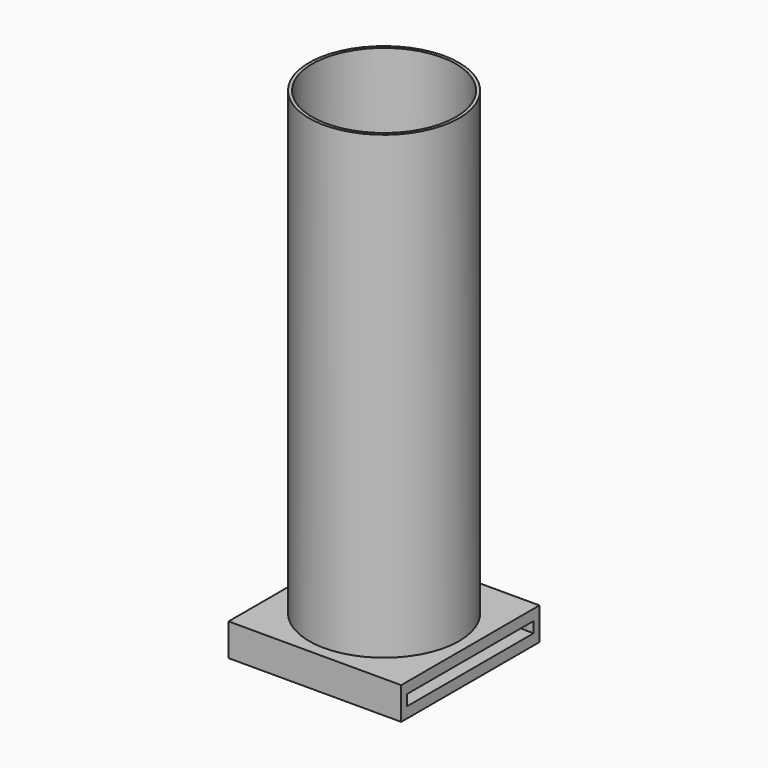
from build123d import *

# Parameters (mm, degrees)
F0_R      = 66.2686
F0_R_2    = 63.5
F1_DEPTH  = 406.4
F3_DEPTH  = 66.2696
F5_DEPTH  = 9.525
F6_W      = 152.4
F6_H      = 152.5488182802
F6_W_2    = 139.7
F6_H_2    = 139.8488182802
F7_DEPTH  = 9.525
F8_W      = 152.4
F8_H      = 152.5488182802
F9_DEPTH  = 9.525
F10_DEPTH = 28.576
F11_W     = 139.7
F11_H     = 9.525
F12_DEPTH = 25.4


with BuildPart() as f1:
    # F0 (on Top) → F1 (new body)
    with BuildSketch(Plane.XY):
        Circle(F0_R)
        Circle(F0_R_2, mode=Mode.SUBTRACT)
    extrude(amount=F1_DEPTH)

    # F2 (on Front) → F3 (cut, through all)
    with BuildSketch(Plane.XZ):
        with BuildLine():
            Line((-12.7, 203.2), (-12.7, 101.6))
            ThreePointArc((-12.7, 101.6), (-8.9802561211, 92.6197438789), (0, 88.9))
            ThreePointArc((0, 88.9), (8.9802561211, 92.6197438789), (12.7, 101.6))
            Line((12.7, 101.6), (12.7, 203.2))
            Line((12.7, 203.2), (12.7, 304.8))
            ThreePointArc((12.7, 304.8), (0, 317.5), (-12.7, 304.8))
            Line((-12.7, 304.8), (-12.7, 203.2))
        make_face()
    extrude(amount=-F3_DEPTH, mode=Mode.SUBTRACT)

    # F4 (on Top) → F5 (join)
    with BuildSketch(Plane.XY):
        Polygon((-76.2, 76.2159317421), (-76.2, 0.0159317421), (-76.2, -76.3328865381), (76.2, -76.3328865381), (76.2, 76.2159317421), align=None)
    extrude(amount=-F5_DEPTH)

    # F6 (on face) → F7 (join)
    with BuildSketch(Plane(origin=(0, 0, -9.525), x_dir=(1, 0, 0), z_dir=(0, 0, -1))):
        with Locations((0, 0.058477398)):
            Rectangle(F6_W, F6_H)
        with Locations((0, 0.058477398)):
            Rectangle(F6_W_2, F6_H_2, mode=Mode.SUBTRACT)
    extrude(amount=F7_DEPTH)

    # F8 (on face) → F9 (join)
    with BuildSketch(Plane(origin=(0, 0, -19.05), x_dir=(1, 0, 0), z_dir=(0, 0, -1))):
        with Locations((0, 0.058477398)):
            Rectangle(F8_W, F8_H)
    extrude(amount=F9_DEPTH)

    # F10 (cut, through all): a face of the model
    f10_faces = [f1.faces().sort_by_distance(p)[0] for p in [
        (0, 0, 0),
    ]]
    extrude(f10_faces, amount=-F10_DEPTH, mode=Mode.SUBTRACT)

    # F11 (on face) → F12 (cut)
    with BuildSketch(Plane.YZ.offset(76.2)):
        with Locations((-0.1328865381, -14.2875)):
            Rectangle(F11_W, F11_H)
    extrude(amount=-F12_DEPTH, mode=Mode.SUBTRACT)


solid = f1.part
